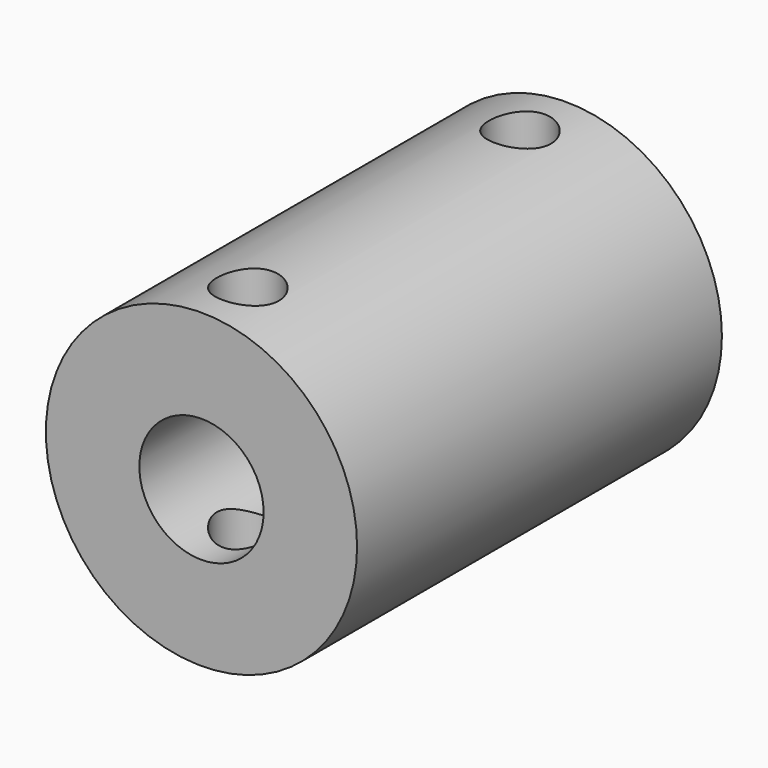
from build123d import *

# Parameters (mm, degrees)
F0_R          = 7.5057
F0_R_2        = 2.9972
F1_DEPTH      = 10.9982
F2_R          = 1.4986
F3_DEPTH      = 7.5067
F3_DEPTH_BACK = 7.5067


with BuildPart() as f1:
    # F0 (on Front) → F1 (new body, symmetric)
    with BuildSketch(Plane.XZ):
        Circle(F0_R)
        Circle(F0_R_2, mode=Mode.SUBTRACT)
    extrude(amount=F1_DEPTH, both=True)

    # F2 (on Top) → F3 (cut, two sides)
    with BuildSketch(Plane.XY) as f3_sk:
        with Locations((0, 8.2042)):
            Circle(F2_R)
        with Locations((0, -8.2042)):
            Circle(F2_R)
    extrude(amount=F3_DEPTH, mode=Mode.SUBTRACT)
    extrude(f3_sk.sketch, amount=-F3_DEPTH_BACK, mode=Mode.SUBTRACT)


solid = f1.part
